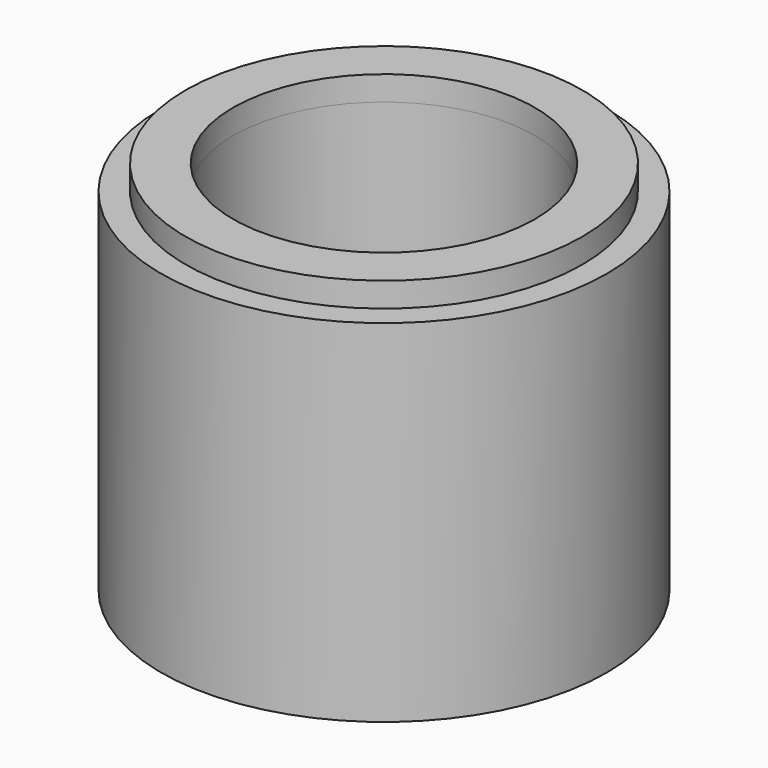
from build123d import *

# Parameters (mm, degrees)
F0_R     = 5.65
F0_R_2   = 4.3
F1_DEPTH = 0.7
F0_R_3   = 6.35
F2_DEPTH = 10


with BuildPart() as f1:
    # F0 (on Top) → F1 (new body)
    with BuildSketch(Plane.XY):
        Circle(F0_R)
        Circle(F0_R_2, mode=Mode.SUBTRACT)
    extrude(amount=F1_DEPTH)

    # F0 (on Top) → F2 (join)
    with BuildSketch(Plane.XY):
        Circle(F0_R_3)
        Circle(F0_R, mode=Mode.SUBTRACT)
        Circle(F0_R)
        Circle(F0_R_2, mode=Mode.SUBTRACT)
    extrude(amount=-F2_DEPTH)


solid = f1.part
